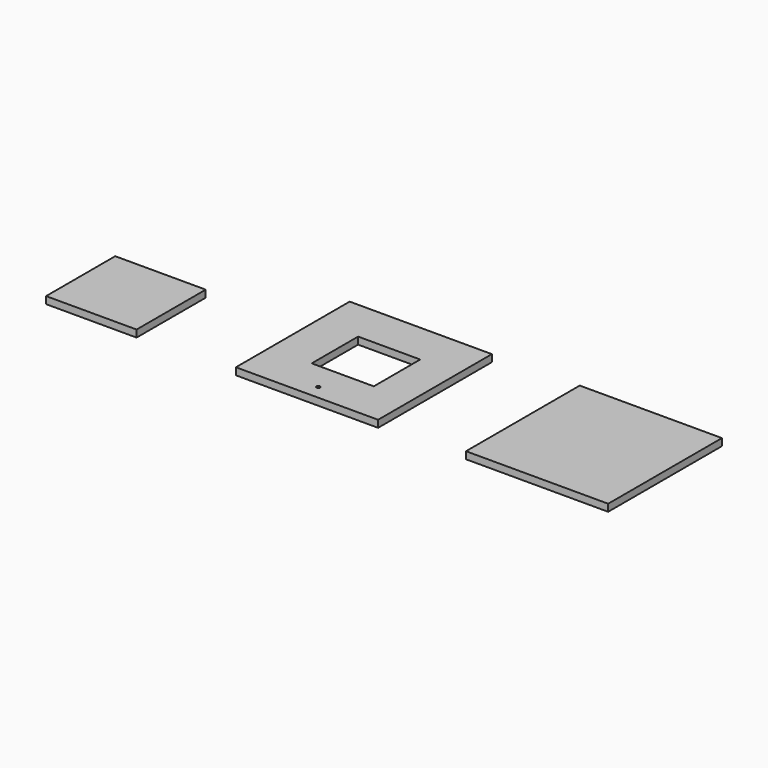
from build123d import *

# Parameters (mm, degrees)
F0_W     = 127
F0_H     = 127
F1_DEPTH = 6.35
F2_W     = 80.8482
F2_H     = 77.18044
F3_DEPTH = 6.35
F5_D     = 3.175
F5_DEPTH = 63.5


with BuildPart() as f1:
    # F0 (on Top) → F1 (new body)
    with BuildSketch(Plane.XY):
        with Locations((63.5, 63.5)):
            Rectangle(F0_W, F0_H)
        Polygon((-204.528752, 125.780657), (-204.528752, -1.219343), (-141.028752, -1.219343), (-77.528752, -1.219343), (-77.528752, 125.780657), align=None)
        Polygon((-166.918972, 62.280657), (-166.918972, 88.206437), (-111.445372, 88.206437), (-111.445372, 62.280657), (-111.445372, 36.390437), (-141.028752, 36.390437), (-166.918972, 36.390437), align=None, mode=Mode.SUBTRACT)
    extrude(amount=F1_DEPTH)

    # F5
    with Locations(Plane.XY.offset(6.35)):
        with Locations((-141.028752, 11.480657)):
            Hole(F5_D / 2, depth=F5_DEPTH)


with BuildPart() as f3:
    # F2 (on Top) → F3 (new body)
    with BuildSketch(Plane.XY):
        with Locations((-334.628343, 38.59022)):
            Rectangle(F2_W, F2_H)
    extrude(amount=F3_DEPTH)


solid = Compound([f1.part, f3.part])
